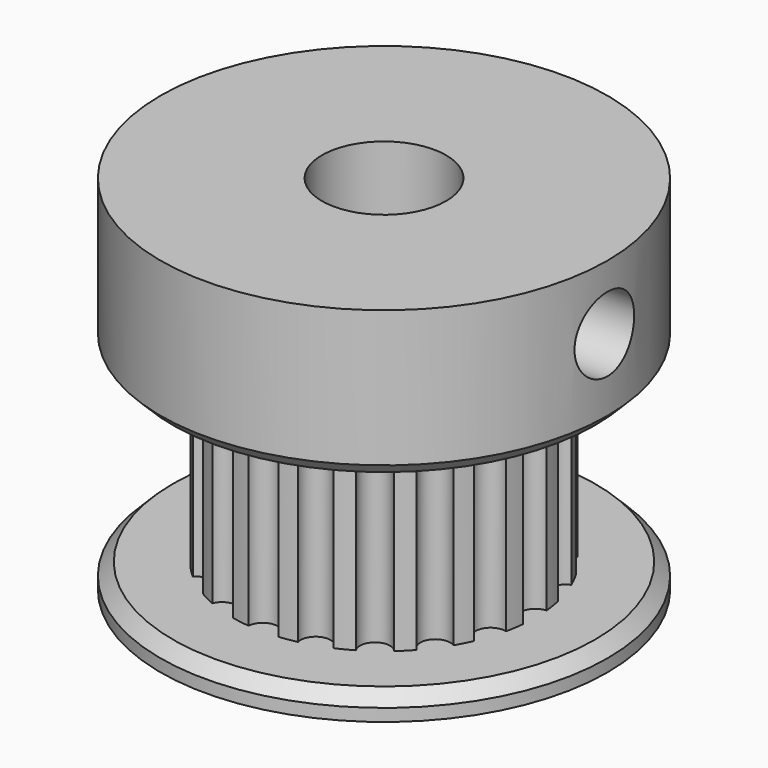
from build123d import *

# Parameters (mm, degrees)
CYLINDER023_R     = 1.5
CYLINDER023_DEPTH = 9
CYLINDER022_R     = 2.5
CYLINDER022_DEPTH = 14.6
CYLINDER020_R     = 9
CYLINDER020_DEPTH = 1
CHAMFER017_SIZE   = 0.5
CYLINDER021_R     = 9
CYLINDER021_DEPTH = 6
CHAMFER018_SIZE   = 0.5
CYLINDER018_R     = 0.6
CYLINDER018_DEPTH = 7.6
ARRAY003_COUNT    = 20
CYLINDER019_R     = 6.1
CYLINDER019_DEPTH = 7.6


with BuildPart() as cilindro013:
    # Cylinder023 → Cylinder023 (new body)
    with BuildSketch(Plane(origin=(1, 0, 12), x_dir=(0, 0, -1), z_dir=(1, 0, 0))):
        Circle(CYLINDER023_R)
    extrude(amount=CYLINDER023_DEPTH)


with BuildPart() as cilindro012:
    # Cylinder022 → Cylinder022 (new body)
    with BuildSketch(Plane.XY):
        Circle(CYLINDER022_R)
    extrude(amount=CYLINDER022_DEPTH)


with BuildPart() as chamfer017:
    # Cylinder020 → Cylinder020 (new body)
    with BuildSketch(Plane.XY):
        Circle(CYLINDER020_R)
    extrude(amount=CYLINDER020_DEPTH)

    # Chamfer017
    chamfer017_edges = [chamfer017.edges().sort_by_distance(p)[0] for p in [
        (-9, 0, 1),
    ]]
    chamfer(chamfer017_edges, length=CHAMFER017_SIZE)


with BuildPart() as chamfer018:
    # Cylinder021 → Cylinder021 (new body)
    with BuildSketch(Plane.XY.offset(8.6)):
        Circle(CYLINDER021_R)
    extrude(amount=CYLINDER021_DEPTH)

    # Chamfer018
    chamfer018_edges = [chamfer018.edges().sort_by_distance(p)[0] for p in [
        (-9, 0, 8.6),
    ]]
    chamfer(chamfer018_edges, length=CHAMFER018_SIZE)


with BuildPart() as array003:
    # Cylinder018 → Cylinder018 (new body)
    with BuildSketch(Plane(origin=(6.1, 0, 0), x_dir=(1, 0, 0), z_dir=(0, 0, 1))):
        Circle(CYLINDER018_R)
    extrude(amount=CYLINDER018_DEPTH)

    # Array003: Array003 ×20 about axis
    array003_axis = Axis((0, 0, 0), (0, 0, 1))


with BuildPart() as array003_1:
    add(array003.part)
    for i in range(1, ARRAY003_COUNT):
        add(array003.part.rotate(array003_axis, i * 360 / ARRAY003_COUNT))


with BuildPart() as cut001004:
    # Cylinder019 → Cylinder019 (new body)
    with BuildSketch(Plane.XY):
        Circle(CYLINDER019_R)
    extrude(amount=CYLINDER019_DEPTH)

    # Cut001002: cut Array003
    add(array003_1.part, mode=Mode.SUBTRACT)


with BuildPart() as cut001004_1:
    # Cut001002 placement: moved
    add(cut001004.part.moved(Location((0, 0, 1))))

    # Fusion007003: union Chamfer017, Chamfer018
    add(chamfer017.part)
    add(chamfer018.part)

    # Cut001003: cut Cilindro012
    add(cilindro012.part, mode=Mode.SUBTRACT)

    # Cut001004: cut Cilindro013
    add(cilindro013.part, mode=Mode.SUBTRACT)


solid = cut001004_1.part
